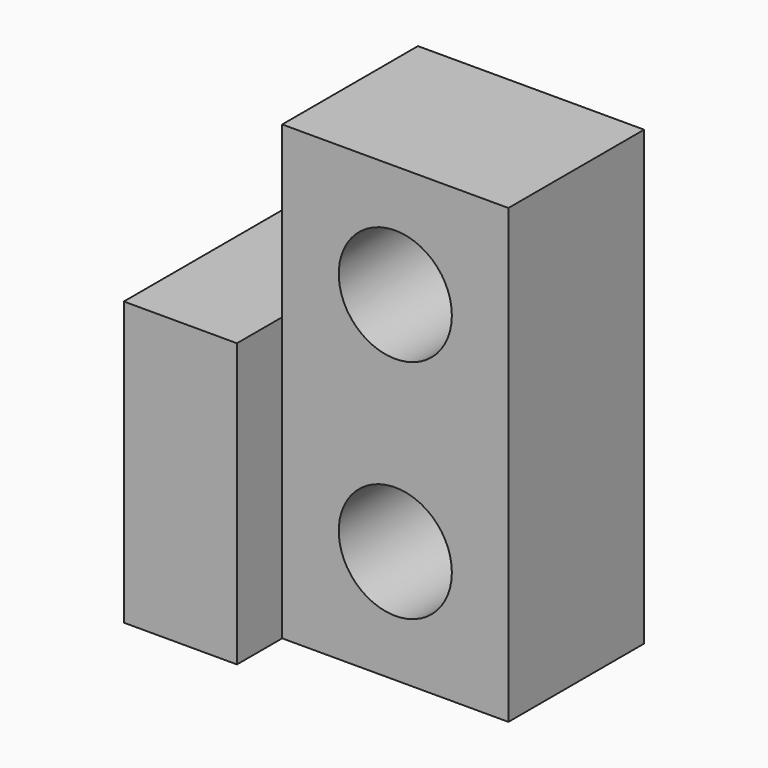
from build123d import *

# Parameters (mm, degrees)
F0_R     = 5
F1_DEPTH = 15
F0_W     = 10
F0_H     = 25
F2_DEPTH = 20
F3_R     = 5
F4_DEPTH = 25


with BuildPart() as f1:
    # F0 (on Front) → F1 (new body)
    with BuildSketch(Plane.XZ):
        Polygon((10, -20), (10, 20), (-10, 20), (-10, 5), (-10, -20), align=None)
        with Locations((0, -10)):
            Circle(F0_R, mode=Mode.SUBTRACT)
    extrude(amount=F1_DEPTH)

    # F3 (on Front) → F4 (cut)
    with BuildSketch(Plane.XZ):
        with Locations((0, 10)):
            Circle(F3_R)
    extrude(amount=F4_DEPTH, mode=Mode.SUBTRACT)


with BuildPart() as f2:
    # F0 (on Front) → F2 (new body)
    with BuildSketch(Plane.XZ):
        with Locations((-15, -7.5)):
            Rectangle(F0_W, F0_H)
    extrude(amount=F2_DEPTH)


solid = Compound([f1.part, f2.part])
